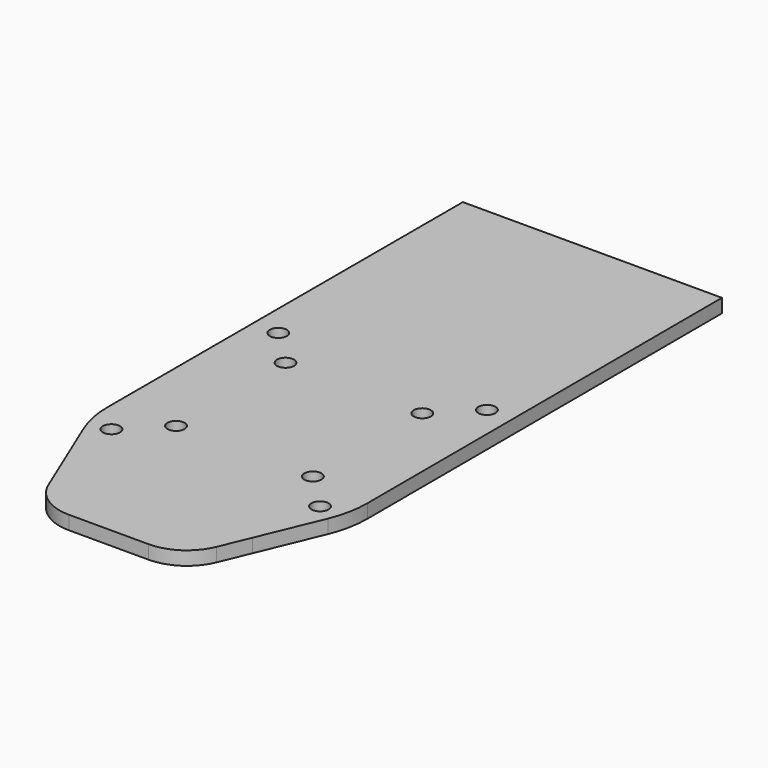
from build123d import *

# Parameters (mm, degrees)
F0_R     = 1.25
F1_DEPTH = 2


with BuildPart() as f1:
    # F0 (on Top) → F1 (new body)
    with BuildSketch(Plane.XY):
        with BuildLine():
            Line((18.871992, 53.662522), (-19, 53.662522))
            Line((-19, 53.662522), (-19, -11.292945))
            ThreePointArc((-19, -11.292945), (-18.710495, -14.225749), (-17.853155, -17.045345))
            Line((-17.853155, -17.045345), (-14.071081, -26.153484))
            Line((-14.071081, -26.153484), (-12.279088, -30.469031))
            ThreePointArc((-12.279088, -30.469031), (-9.700722, -33.606569), (-5.814282, -34.784578))
            Line((-5.814282, -34.784578), (5.814282, -34.784578))
            ThreePointArc((5.814282, -34.784578), (9.700722, -33.606569), (12.279088, -30.469031))
            Line((12.279088, -30.469031), (14.071081, -26.153484))
            Line((14.071081, -26.153484), (17.853155, -17.045345))
            ThreePointArc((17.853155, -17.045345), (18.710495, -14.225749), (19, -11.292945))
            Line((19, -11.292945), (18.871992, 53.662522))
        make_face()
        with Locations((-15.25, -15.25)):
            Circle(F0_R, mode=Mode.SUBTRACT)
        with Locations((-10, -10)):
            Circle(F0_R, mode=Mode.SUBTRACT)
        with Locations((15.25, -15.25)):
            Circle(F0_R, mode=Mode.SUBTRACT)
        with Locations((10, -10)):
            Circle(F0_R, mode=Mode.SUBTRACT)
        with Locations((-15.25, 15.25)):
            Circle(F0_R, mode=Mode.SUBTRACT)
        with Locations((-10, 10)):
            Circle(F0_R, mode=Mode.SUBTRACT)
        with Locations((10, 10)):
            Circle(F0_R, mode=Mode.SUBTRACT)
        with Locations((15.25, 15.25)):
            Circle(F0_R, mode=Mode.SUBTRACT)
    extrude(amount=F1_DEPTH)


solid = f1.part
